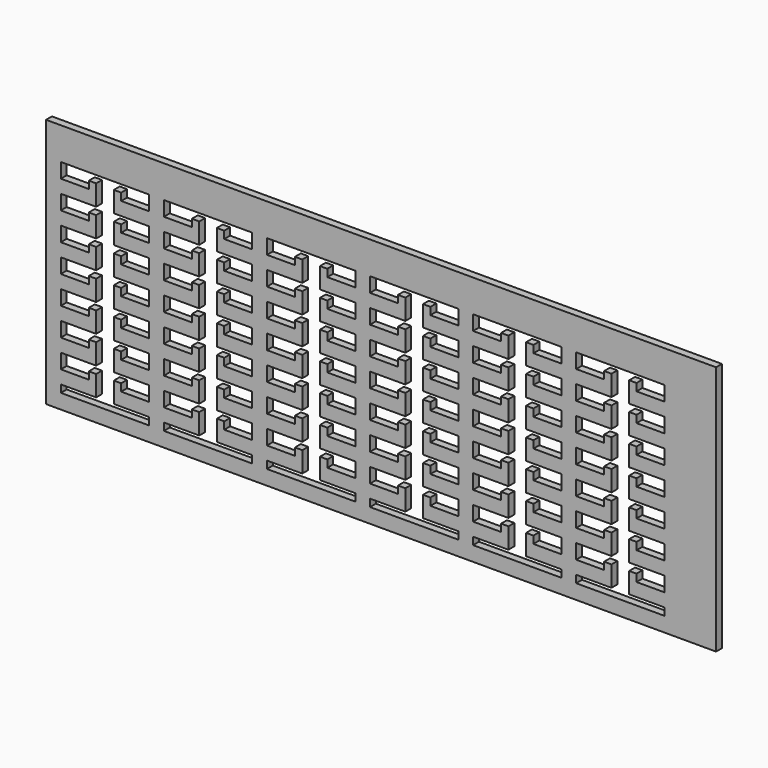
from build123d import *

# Parameters (mm, degrees)
F0_W     = 577.85
F0_H     = 215.9
F1_DEPTH = 6.35


with BuildPart() as f1:
    # F0 (on Front) → F1 (new body)
    with BuildSketch(Plane.XZ):
        with Locations((-266.234771, 15.203728)):
            Rectangle(F0_W, F0_H)
        Polygon((-542.459771, -62.202783), (-542.459771, -49.502783), (-511.979771, -49.502783), (-511.979771, -31.722783), (-518.329771, -31.722783), (-518.329771, -38.072783), (-542.459771, -38.072783), (-542.459771, -25.372783), (-511.979771, -25.372783), (-511.979771, -7.592783), (-518.329771, -7.592783), (-518.329771, -13.942783), (-542.459771, -13.942783), (-542.459771, -1.242783), (-511.979771, -1.242783), (-511.979771, 16.537217), (-518.329771, 16.537217), (-518.329771, 10.187217), (-542.459771, 10.187217), (-542.459771, 22.887217), (-511.979771, 22.887217), (-511.979771, 40.667217), (-518.329771, 40.667217), (-518.329771, 34.317217), (-542.459771, 34.317217), (-542.459771, 47.017217), (-511.979771, 47.017217), (-511.979771, 64.797217), (-518.329771, 64.797217), (-518.329771, 58.447217), (-542.459771, 58.447217), (-542.459771, 71.147217), (-511.979771, 71.147217), (-511.979771, 88.927217), (-518.329771, 88.927217), (-518.329771, 82.577217), (-542.459771, 82.577217), (-542.459771, 95.277217), (-466.259771, 95.277217), (-466.259771, 82.577217), (-490.389771, 82.577217), (-490.389771, 88.927217), (-496.739771, 88.927217), (-496.739771, 71.147217), (-466.259771, 71.147217), (-466.259771, 58.447217), (-490.389771, 58.447217), (-490.389771, 64.797217), (-496.739771, 64.797217), (-496.739771, 47.017217), (-466.259771, 47.017217), (-466.259771, 34.317217), (-490.389771, 34.317217), (-490.389771, 40.667217), (-496.739771, 40.667217), (-496.739771, 22.887217), (-466.259771, 22.887217), (-466.259771, 10.187217), (-490.389771, 10.187217), (-490.389771, 16.537217), (-496.739771, 16.537217), (-496.739771, -1.242783), (-466.259771, -1.242783), (-466.259771, -13.942783), (-490.389771, -13.942783), (-490.389771, -7.592783), (-496.739771, -7.592783), (-496.739771, -25.372783), (-466.259771, -25.372783), (-466.259771, -38.072783), (-490.389771, -38.072783), (-490.389771, -31.722783), (-496.739771, -31.722783), (-496.739771, -49.502783), (-466.259771, -49.502783), (-466.259771, -62.202783), (-490.389771, -62.202783), (-490.389771, -55.852783), (-496.739771, -55.852783), (-496.739771, -73.632783), (-466.259771, -73.632783), (-466.259771, -80.046283), (-542.459771, -80.046283), (-542.459771, -73.632783), (-511.979771, -73.632783), (-511.979771, -55.852783), (-518.329771, -55.852783), (-518.329771, -62.202783), align=None, mode=Mode.SUBTRACT)
        Polygon((-453.559771, -62.202772), (-453.559771, -49.502772), (-423.079771, -49.502772), (-423.079771, -31.722772), (-429.429771, -31.722772), (-429.429771, -38.072772), (-453.559771, -38.072772), (-453.559771, -25.372772), (-423.079771, -25.372772), (-423.079771, -7.592772), (-429.429771, -7.592772), (-429.429771, -13.942772), (-453.559771, -13.942772), (-453.559771, -1.242772), (-423.079771, -1.242772), (-423.079771, 16.537228), (-429.429771, 16.537228), (-429.429771, 10.187228), (-453.559771, 10.187228), (-453.559771, 22.887228), (-423.079771, 22.887228), (-423.079771, 40.667228), (-429.429771, 40.667228), (-429.429771, 34.317228), (-453.559771, 34.317228), (-453.559771, 47.017228), (-423.079771, 47.017228), (-423.079771, 64.797228), (-429.429771, 64.797228), (-429.429771, 58.447228), (-453.559771, 58.447228), (-453.559771, 71.147228), (-423.079771, 71.147228), (-423.079771, 88.927228), (-429.429771, 88.927228), (-429.429771, 82.577228), (-453.559771, 82.577228), (-453.559771, 95.277228), (-377.359771, 95.277228), (-377.359771, 82.577228), (-401.489771, 82.577228), (-401.489771, 88.927228), (-407.839771, 88.927228), (-407.839771, 71.147228), (-377.359771, 71.147228), (-377.359771, 58.447228), (-401.489771, 58.447228), (-401.489771, 64.797228), (-407.839771, 64.797228), (-407.839771, 47.017228), (-377.359771, 47.017228), (-377.359771, 34.317228), (-401.489771, 34.317228), (-401.489771, 40.667228), (-407.839771, 40.667228), (-407.839771, 22.887228), (-377.359771, 22.887228), (-377.359771, 10.187228), (-401.489771, 10.187228), (-401.489771, 16.537228), (-407.839771, 16.537228), (-407.839771, -1.242772), (-377.359771, -1.242772), (-377.359771, -13.942772), (-401.489771, -13.942772), (-401.489771, -7.592772), (-407.839771, -7.592772), (-407.839771, -25.372772), (-377.359771, -25.372772), (-377.359771, -38.072772), (-401.489771, -38.072772), (-401.489771, -31.722772), (-407.839771, -31.722772), (-407.839771, -49.502772), (-377.359771, -49.502772), (-377.359771, -62.202772), (-401.489771, -62.202772), (-401.489771, -55.852772), (-407.839771, -55.852772), (-407.839771, -73.632772), (-377.359771, -73.632772), (-377.359771, -80.046272), (-453.559771, -80.046272), (-453.559771, -73.632772), (-423.079771, -73.632772), (-423.079771, -55.852772), (-429.429771, -55.852772), (-429.429771, -62.202772), align=None, mode=Mode.SUBTRACT)
        Polygon((-364.659771, -62.202772), (-364.659771, -49.502772), (-334.179771, -49.502772), (-334.179771, -31.722772), (-340.529771, -31.722772), (-340.529771, -38.072772), (-364.659771, -38.072772), (-364.659771, -25.372772), (-334.179771, -25.372772), (-334.179771, -7.592772), (-340.529771, -7.592772), (-340.529771, -13.942772), (-364.659771, -13.942772), (-364.659771, -1.242772), (-334.179771, -1.242772), (-334.179771, 16.537228), (-340.529771, 16.537228), (-340.529771, 10.187228), (-364.659771, 10.187228), (-364.659771, 22.887228), (-334.179771, 22.887228), (-334.179771, 40.667228), (-340.529771, 40.667228), (-340.529771, 34.317228), (-364.659771, 34.317228), (-364.659771, 47.017228), (-334.179771, 47.017228), (-334.179771, 64.797228), (-340.529771, 64.797228), (-340.529771, 58.447228), (-364.659771, 58.447228), (-364.659771, 71.147228), (-334.179771, 71.147228), (-334.179771, 88.927228), (-340.529771, 88.927228), (-340.529771, 82.577228), (-364.659771, 82.577228), (-364.659771, 95.277228), (-288.459771, 95.277228), (-288.459771, 82.577228), (-312.589771, 82.577228), (-312.589771, 88.927228), (-318.939771, 88.927228), (-318.939771, 71.147228), (-288.459771, 71.147228), (-288.459771, 58.447228), (-312.589771, 58.447228), (-312.589771, 64.797228), (-318.939771, 64.797228), (-318.939771, 47.017228), (-288.459771, 47.017228), (-288.459771, 34.317228), (-312.589771, 34.317228), (-312.589771, 40.667228), (-318.939771, 40.667228), (-318.939771, 22.887228), (-288.459771, 22.887228), (-288.459771, 10.187228), (-312.589771, 10.187228), (-312.589771, 16.537228), (-318.939771, 16.537228), (-318.939771, -1.242772), (-288.459771, -1.242772), (-288.459771, -13.942772), (-312.589771, -13.942772), (-312.589771, -7.592772), (-318.939771, -7.592772), (-318.939771, -25.372772), (-288.459771, -25.372772), (-288.459771, -38.072772), (-312.589771, -38.072772), (-312.589771, -31.722772), (-318.939771, -31.722772), (-318.939771, -49.502772), (-288.459771, -49.502772), (-288.459771, -62.202772), (-312.589771, -62.202772), (-312.589771, -55.852772), (-318.939771, -55.852772), (-318.939771, -73.632772), (-288.459771, -73.632772), (-288.459771, -80.046272), (-364.659771, -80.046272), (-364.659771, -73.632772), (-334.179771, -73.632772), (-334.179771, -55.852772), (-340.529771, -55.852772), (-340.529771, -62.202772), align=None, mode=Mode.SUBTRACT)
        Polygon((-275.759771, -62.202772), (-275.759771, -49.502772), (-245.279771, -49.502772), (-245.279771, -31.722772), (-251.629771, -31.722772), (-251.629771, -38.072772), (-275.759771, -38.072772), (-275.759771, -25.372772), (-245.279771, -25.372772), (-245.279771, -7.592772), (-251.629771, -7.592772), (-251.629771, -13.942772), (-275.759771, -13.942772), (-275.759771, -1.242772), (-245.279771, -1.242772), (-245.279771, 16.537228), (-251.629771, 16.537228), (-251.629771, 10.187228), (-275.759771, 10.187228), (-275.759771, 22.887228), (-245.279771, 22.887228), (-245.279771, 40.667228), (-251.629771, 40.667228), (-251.629771, 34.317228), (-275.759771, 34.317228), (-275.759771, 47.017228), (-245.279771, 47.017228), (-245.279771, 64.797228), (-251.629771, 64.797228), (-251.629771, 58.447228), (-275.759771, 58.447228), (-275.759771, 71.147228), (-272.584771, 71.147228), (-259.884771, 71.147228), (-245.279771, 71.147228), (-245.279771, 88.927228), (-251.629771, 88.927228), (-251.629771, 82.577228), (-275.759771, 82.577228), (-275.759771, 95.277228), (-199.559771, 95.277228), (-199.559771, 82.577228), (-223.689771, 82.577228), (-223.689771, 88.927228), (-230.039771, 88.927228), (-230.039771, 71.147228), (-199.559771, 71.147228), (-199.559771, 58.447228), (-223.689771, 58.447228), (-223.689771, 64.797228), (-230.039771, 64.797228), (-230.039771, 47.017228), (-199.559771, 47.017228), (-199.559771, 34.317228), (-223.689771, 34.317228), (-223.689771, 40.667228), (-230.039771, 40.667228), (-230.039771, 22.887228), (-199.559771, 22.887228), (-199.559771, 10.187228), (-223.689771, 10.187228), (-223.689771, 16.537228), (-230.039771, 16.537228), (-230.039771, -1.242772), (-199.559771, -1.242772), (-199.559771, -13.942772), (-223.689771, -13.942772), (-223.689771, -7.592772), (-230.039771, -7.592772), (-230.039771, -25.372772), (-199.559771, -25.372772), (-199.559771, -38.072772), (-223.689771, -38.072772), (-223.689771, -31.722772), (-230.039771, -31.722772), (-230.039771, -49.502772), (-199.559771, -49.502772), (-199.559771, -62.202772), (-223.689771, -62.202772), (-223.689771, -55.852772), (-230.039771, -55.852772), (-230.039771, -73.632772), (-199.559771, -73.632772), (-199.559771, -80.046272), (-275.759771, -80.046272), (-275.759771, -73.632772), (-245.279771, -73.632772), (-245.279771, -55.852772), (-251.629771, -55.852772), (-251.629771, -62.202772), align=None, mode=Mode.SUBTRACT)
        Polygon((-186.859771, -62.202772), (-186.859771, -49.502772), (-156.379771, -49.502772), (-156.379771, -31.722772), (-162.729771, -31.722772), (-162.729771, -38.072772), (-186.859771, -38.072772), (-186.859771, -25.372772), (-156.379771, -25.372772), (-156.379771, -7.592772), (-162.729771, -7.592772), (-162.729771, -13.942772), (-186.859771, -13.942772), (-186.859771, -1.242772), (-156.379771, -1.242772), (-156.379771, 16.537228), (-162.729771, 16.537228), (-162.729771, 10.187228), (-186.859771, 10.187228), (-186.859771, 22.887228), (-156.379771, 22.887228), (-156.379771, 40.667228), (-162.729771, 40.667228), (-162.729771, 34.317228), (-186.859771, 34.317228), (-186.859771, 47.017228), (-156.379771, 47.017228), (-156.379771, 64.797228), (-162.729771, 64.797228), (-162.729771, 58.447228), (-186.859771, 58.447228), (-186.859771, 71.147228), (-156.379771, 71.147228), (-156.379771, 88.927228), (-162.729771, 88.927228), (-162.729771, 82.577228), (-186.859771, 82.577228), (-186.859771, 95.277228), (-110.659771, 95.277228), (-110.659771, 82.577228), (-134.789771, 82.577228), (-134.789771, 88.927228), (-141.139771, 88.927228), (-141.139771, 71.147228), (-110.659771, 71.147228), (-110.659771, 58.447228), (-134.789771, 58.447228), (-134.789771, 64.797228), (-141.139771, 64.797228), (-141.139771, 47.017228), (-110.659771, 47.017228), (-110.659771, 34.317228), (-134.789771, 34.317228), (-134.789771, 40.667228), (-141.139771, 40.667228), (-141.139771, 22.887228), (-110.659771, 22.887228), (-110.659771, 10.187228), (-134.789771, 10.187228), (-134.789771, 16.537228), (-141.139771, 16.537228), (-141.139771, -1.242772), (-110.659771, -1.242772), (-110.659771, -13.942772), (-134.789771, -13.942772), (-134.789771, -7.592772), (-141.139771, -7.592772), (-141.139771, -25.372772), (-110.659771, -25.372772), (-110.659771, -38.072772), (-134.789771, -38.072772), (-134.789771, -31.722772), (-141.139771, -31.722772), (-141.139771, -49.502772), (-110.659771, -49.502772), (-110.659771, -62.202772), (-134.789771, -62.202772), (-134.789771, -55.852772), (-141.139771, -55.852772), (-141.139771, -73.632772), (-110.659771, -73.632772), (-110.659771, -80.046272), (-186.859771, -80.046272), (-186.859771, -73.632772), (-156.379771, -73.632772), (-156.379771, -55.852772), (-162.729771, -55.852772), (-162.729771, -62.202772), align=None, mode=Mode.SUBTRACT)
        Polygon((-97.959771, -62.202772), (-97.959771, -49.502772), (-67.479771, -49.502772), (-67.479771, -31.722772), (-73.829771, -31.722772), (-73.829771, -38.072772), (-97.959771, -38.072772), (-97.959771, -25.372772), (-67.479771, -25.372772), (-67.479771, -7.592772), (-73.829771, -7.592772), (-73.829771, -13.942772), (-97.959771, -13.942772), (-97.959771, -1.242772), (-67.479771, -1.242772), (-67.479771, 16.537228), (-73.829771, 16.537228), (-73.829771, 10.187228), (-97.959771, 10.187228), (-97.959771, 22.887228), (-67.479771, 22.887228), (-67.479771, 40.667228), (-73.829771, 40.667228), (-73.829771, 34.317228), (-97.959771, 34.317228), (-97.959771, 47.017228), (-67.479771, 47.017228), (-67.479771, 64.797228), (-73.829771, 64.797228), (-73.829771, 58.447228), (-97.959771, 58.447228), (-97.959771, 71.147228), (-67.479771, 71.147228), (-67.479771, 88.927228), (-73.829771, 88.927228), (-73.829771, 82.577228), (-97.959771, 82.577228), (-97.959771, 95.277228), (-21.759771, 95.277228), (-21.759771, 82.577228), (-45.889771, 82.577228), (-45.889771, 88.927228), (-52.239771, 88.927228), (-52.239771, 71.147228), (-21.759771, 71.147228), (-21.759771, 58.447228), (-45.889771, 58.447228), (-45.889771, 64.797228), (-52.239771, 64.797228), (-52.239771, 47.017228), (-21.759771, 47.017228), (-21.759771, 34.317228), (-45.889771, 34.317228), (-45.889771, 40.667228), (-52.239771, 40.667228), (-52.239771, 22.887228), (-21.759771, 22.887228), (-21.759771, 10.187228), (-45.889771, 10.187228), (-45.889771, 16.537228), (-52.239771, 16.537228), (-52.239771, -1.242772), (-21.759771, -1.242772), (-21.759771, -13.942772), (-45.889771, -13.942772), (-45.889771, -7.592772), (-52.239771, -7.592772), (-52.239771, -25.372772), (-21.759771, -25.372772), (-21.759771, -38.072772), (-45.889771, -38.072772), (-45.889771, -31.722772), (-52.239771, -31.722772), (-52.239771, -49.502772), (-21.759771, -49.502772), (-21.759771, -62.202772), (-45.889771, -62.202772), (-45.889771, -55.852772), (-52.239771, -55.852772), (-52.239771, -73.632772), (-21.759771, -73.632772), (-21.759771, -80.046272), (-97.959771, -80.046272), (-97.959771, -73.632772), (-67.479771, -73.632772), (-67.479771, -55.852772), (-73.829771, -55.852772), (-73.829771, -62.202772), align=None, mode=Mode.SUBTRACT)
    extrude(amount=F1_DEPTH)


solid = f1.part
